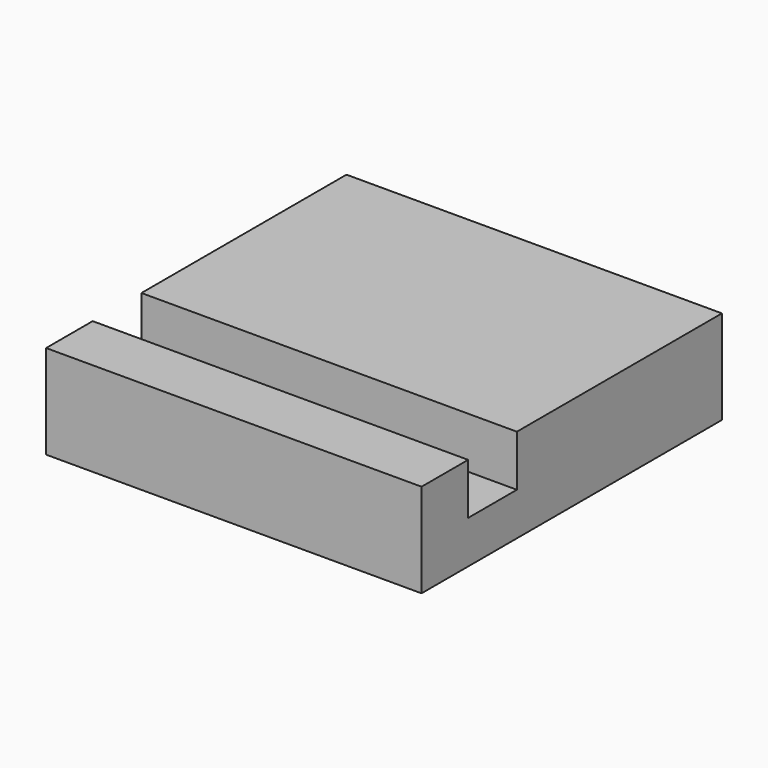
from build123d import *

# Parameters (mm, degrees)
F0_W          = 50.8
F0_H          = 12.7
F1_DEPTH      = 25.4
F1_DEPTH_BACK = 25.4
F2_W          = 8.245779
F2_H          = 8.922608
F3_DEPTH      = 50.8


with BuildPart() as f1:
    # F0 (on Right) → F1 (new body, two sides)
    with BuildSketch(Plane.YZ) as f1_sk:
        Rectangle(F0_W, F0_H)
    extrude(amount=F1_DEPTH)
    extrude(f1_sk.sketch, amount=-F1_DEPTH_BACK)

    # F2 (on face) → F3 (cut)
    with BuildSketch(Plane.YZ.offset(25.4)):
        with Locations((-13.397793, 3.894767)):
            Rectangle(F2_W, F2_H)
    extrude(amount=-F3_DEPTH, mode=Mode.SUBTRACT)


solid = f1.part
